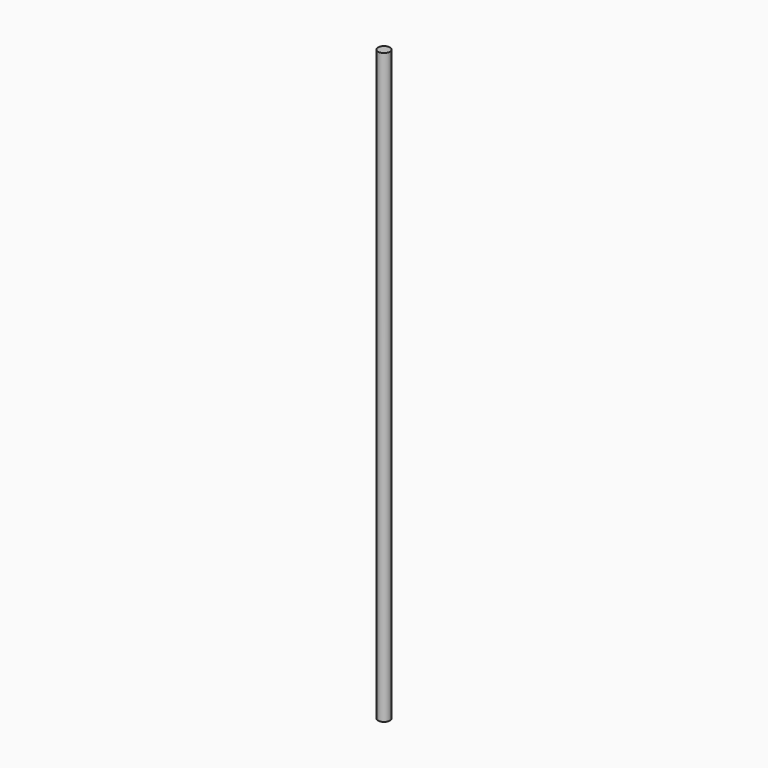
from build123d import *

# Parameters (mm, degrees)
CYLINDER_R        = 3
CYLINDER_DEPTH    = 300
CYLINDER001_R     = 2.5
CYLINDER001_DEPTH = 230


with BuildPart() as cylinder:
    # Cylinder → Cylinder (new body)
    with BuildSketch(Plane.XY):
        Circle(CYLINDER_R)
    extrude(amount=CYLINDER_DEPTH)


with BuildPart() as cylinder001:
    # Cylinder001 → Cylinder001 (new body)
    with BuildSketch(Plane.XY):
        Circle(CYLINDER001_R)
    extrude(amount=CYLINDER001_DEPTH)


solid = Compound([cylinder.part, cylinder001.part])
